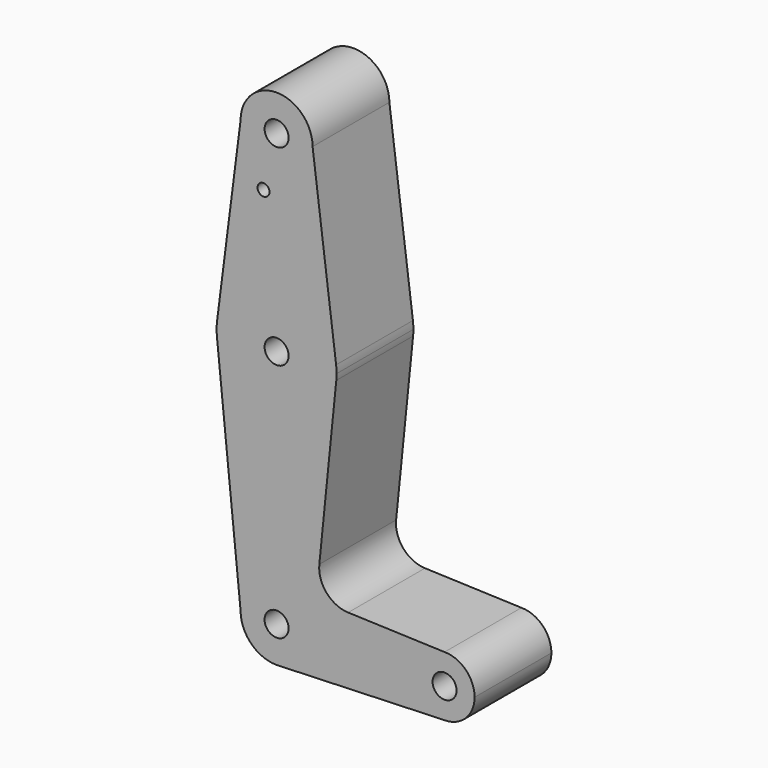
from build123d import *

# Parameters (mm, degrees)
F0_R     = 3.175
F0_R_2   = 1.5875
F1_DEPTH = 25.4


with BuildPart() as f1:
    # F0 (on Front) → F1 (new body)
    with BuildSketch(Plane.XZ):
        with BuildLine():
            ThreePointArc((0.6794904459, -9.5007324841), (6.9712901065, -6.4905114784), (9.525, 0))
            ThreePointArc((9.525, 0), (0, 9.525), (-9.525, 0))
            ThreePointArc((-9.525, 0), (-6.7351920908, -6.7351920908), (0, -9.525))
            Line((0, -9.525), (0.6794904459, -9.5007324841))
        make_face()
        Circle(F0_R, mode=Mode.SUBTRACT)
        with BuildLine():
            Line((36.5125, 0), (9.525, 0))
            ThreePointArc((9.525, 0), (6.9712901065, -6.4905114784), (0.6794904459, -9.5007324841))
            Line((0.6794904459, -9.5007324841), (44.45, -7.9375))
            ThreePointArc((44.45, -7.9375), (38.8373399243, -5.6126600757), (36.5125, 0))
        make_face()
        with BuildLine():
            ThreePointArc((-9.525, 0), (0, 9.525), (9.525, 0))
            Line((9.525, 0), (36.5125, 0))
            ThreePointArc((36.5125, 0), (38.8373399243, 5.6126600757), (44.45, 7.9375))
            Line((44.45, 7.9375), (18.9329889534, 8.8488218231))
            ThreePointArc((18.9329889534, 8.8488218231), (13.22446249, 11.5691841219), (11.3070069952, 17.5950458731))
            Line((11.3070069952, 17.5950458731), (15.7942028036, 61.9003804205))
            ThreePointArc((15.7942028036, 61.9003804205), (0, 47.625), (-15.7942028036, 61.9003804205))
            Line((-15.7942028036, 61.9003804205), (-9.525, 0))
        make_face()
        with BuildLine():
            ThreePointArc((0, -9.525), (0.3399618281, -9.5189311877), (0.6794904459, -9.5007324841))
            Line((0.6794904459, -9.5007324841), (0, -9.525))
        make_face()
        with BuildLine():
            ThreePointArc((44.45, 7.9375), (38.8373399243, 5.6126600757), (36.5125, 0))
            ThreePointArc((36.5125, 0), (38.8373399243, -5.6126600757), (44.45, -7.9375))
            ThreePointArc((44.45, -7.9375), (50.0626600757, -5.6126600757), (52.3875, 0))
            ThreePointArc((52.3875, 0), (50.0626600757, 5.6126600757), (44.45, 7.9375))
        make_face()
        with BuildLine():
            ThreePointArc((47.625, 0), (44.45, -3.175), (41.275, 0))
            ThreePointArc((41.275, 0), (44.45, 3.175), (47.625, 0))
        make_face(mode=Mode.SUBTRACT)
        with BuildLine():
            ThreePointArc((-15.7474569047, 65.5082893304), (-15.873667691, 63.7056672947), (-15.7942028036, 61.9003804205))
            ThreePointArc((-15.7942028036, 61.9003804205), (0, 47.625), (15.7942028036, 61.9003804205))
            ThreePointArc((15.7942028036, 61.9003804205), (15.8547878338, 62.6991705884), (15.875, 63.5))
            ThreePointArc((15.875, 63.5), (15.8430821396, 64.5061676396), (15.7474569047, 65.5082893304))
            ThreePointArc((15.7474569047, 65.5082893304), (0, 79.375), (-15.7474569047, 65.5082893304))
        make_face()
        with Locations((0, 63.5)):
            Circle(F0_R, mode=Mode.SUBTRACT)
        with BuildLine():
            Line((-9.525, 114.3), (-15.7474569047, 65.5082893304))
            ThreePointArc((-15.7474569047, 65.5082893304), (0, 79.375), (15.7474569047, 65.5082893304))
            Line((15.7474569047, 65.5082893304), (9.525, 114.3))
            ThreePointArc((9.525, 114.3), (0, 104.775), (-9.525, 114.3))
        make_face()
        with Locations((-3.4632231109, 100.0252)):
            Circle(F0_R_2, mode=Mode.SUBTRACT)
        with BuildLine():
            ThreePointArc((9.525, 114.3), (0, 123.825), (-9.525, 114.3))
            ThreePointArc((-9.525, 114.3), (0, 104.775), (9.525, 114.3))
        make_face()
        with Locations((0, 114.3)):
            Circle(F0_R, mode=Mode.SUBTRACT)
    extrude(amount=F1_DEPTH)


solid = f1.part
